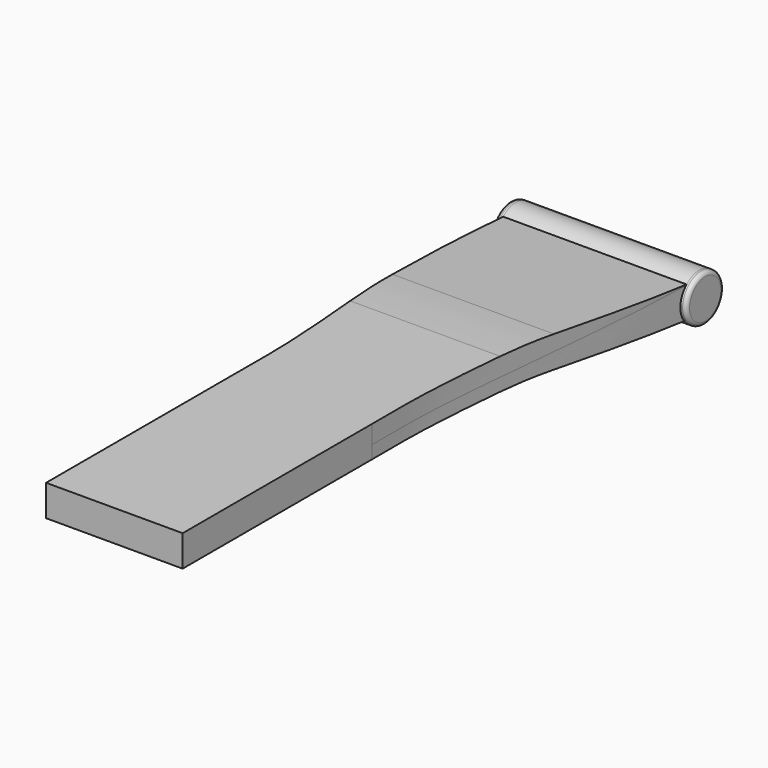
from build123d import *

# Parameters (mm, degrees)
F1_DEPTH = 11.75
F3_DEPTH = 10.2
F4_R     = 3
F5_DEPTH = 12.5
F6_R     = 0.5


with BuildPart() as f1:
    # F0 (on Right) → F1 (new body, symmetric)
    with BuildSketch(Plane.YZ):
        with BuildLine():
            ThreePointArc((70.3502100474, -3.8900166392), (73.7025583371, -4.9650890437), (75.7682282921, -2.1142948795))
            ThreePointArc((75.7682282921, -2.1142948795), (73.9723491924, 0.6334483504), (70.7348330539, 0.0914484884))
            ThreePointArc((70.7348330539, 0.0914484884), (69.7821293922, -1.8258276194), (70.3502100474, -3.8900166392))
        make_face()
        with BuildLine():
            ThreePointArc((70.3502100474, -3.8900166392), (69.7821293922, -1.8258276194), (70.7348330539, 0.0914484884))
            Line((70.7348330539, 0.0914484884), (51.2349025363, 1.9752077734))
            ThreePointArc((51.2349025363, 1.9752077734), (47.3931357281, 2.2531760356), (43.5424422673, 2.3459037766))
            Line((43.5424422673, 2.3459037766), (-6.2317717079, 2.3459037766))
            Line((-6.2317717079, 2.3459037766), (-6.2317717079, -1.6540961509))
            Line((-6.2317717079, -1.6540961509), (43.5424422673, -1.6540961509))
            ThreePointArc((43.5424422673, -1.6540961509), (47.2006010586, -1.742187505), (50.8502795298, -2.0062573543))
            Line((50.8502795298, -2.0062573543), (70.3502100474, -3.8900166392))
        make_face()
    extrude(amount=F1_DEPTH, both=True)

    # F2 (on Top) → F3 (cut, symmetric)
    with BuildSketch(Plane.XY):
        with BuildLine():
            Line((8.75, 24.0882448852), (8.75, -6.2317717079))
            Line((8.75, -6.2317717079), (11.75, -6.2317717079))
            Line((11.75, -6.2317717079), (11.75, 70.7348330539))
            add(Edge.make_bspline(
                [(11.75, 70.7348330539), (11.6262901574, 67.5527974963), (11.3494589509, 59.7203740039), (8.5420361296, 34.7760059385), (8.75, 27.7926027775), (8.75, 24.0882448852)],
                knots=[0, 0, 0, 0, 0.2868478111, 0.7138684007, 1, 1, 1, 1], degree=3))
        make_face()
        with BuildLine():
            Line((-11.75, -6.2317717079), (-8.75, -6.2317717079))
            Line((-8.75, -6.2317717079), (-8.75, 24.0882448852))
            add(Edge.make_bspline(
                [(-11.75, 70.7348330539), (-11.6262901574, 67.5527974963), (-11.3494589509, 59.7203740039), (-8.5420361296, 34.7760059385), (-8.75, 27.7926027775), (-8.75, 24.0882448852)],
                knots=[0, 0, 0, 0, 0.2868478111, 0.7138684007, 1, 1, 1, 1], degree=3))
            Line((-11.75, 70.7348330539), (-11.75, -6.2317717079))
        make_face()
    extrude(amount=F3_DEPTH, both=True, mode=Mode.SUBTRACT)

    # F4 (on Right) → F5 (join, symmetric)
    with BuildSketch(Plane.YZ):
        with Locations((72.7682282921, -2.1142948795)):
            Circle(F4_R)
    extrude(amount=F5_DEPTH, both=True)

    # F6
    f6_edges = [f1.edges().sort_by_distance(p)[0] for p in [
        (12.5, 69.768228, -2.114295),
        (-12.5, 69.768228, -2.114295),
    ]]
    fillet(f6_edges, radius=F6_R)


solid = f1.part
